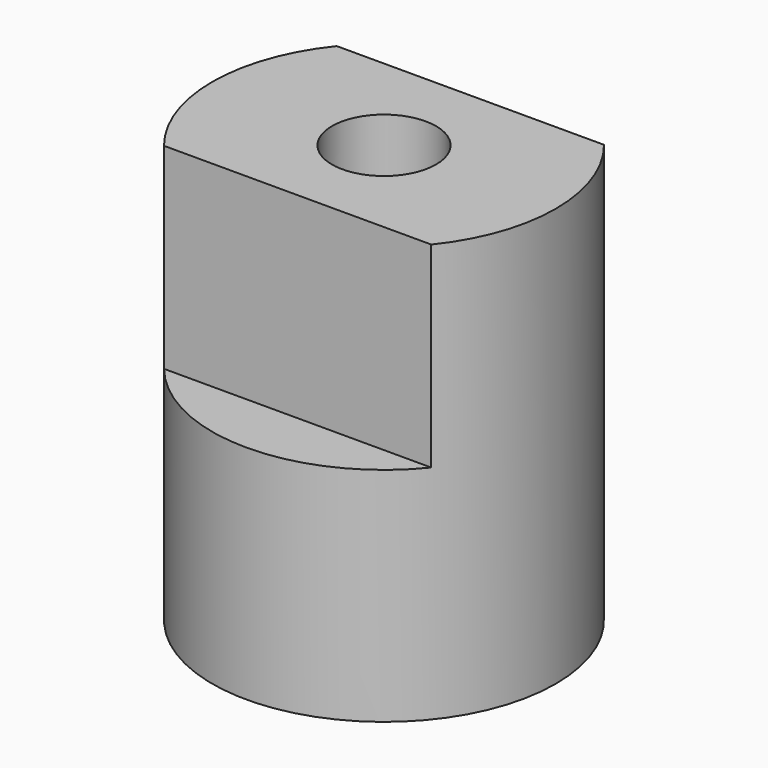
from build123d import *

# Parameters (mm, degrees)
F0_R     = 8.75
F0_R_2   = 4
F1_DEPTH = 21.3
F2_START = 3.8
F0_R_3   = 2.65
F2_DEPTH = 17.5
F4_DEPTH = 10


with BuildPart() as f1:
    # F0 (on Top) → F1 (new body)
    with BuildSketch(Plane.XY):
        Circle(F0_R)
        Circle(F0_R_2, mode=Mode.SUBTRACT)
    extrude(amount=F1_DEPTH)

    # F0 (on Top) → F2 (join)
    with BuildSketch(Plane.XY.offset(F2_START)):
        Circle(F0_R_2)
        Circle(F0_R_3, mode=Mode.SUBTRACT)
    extrude(amount=F2_DEPTH)

    # F3 (on face) → F4 (cut)
    with BuildSketch(Plane.XY.offset(21.3)):
        with BuildLine():
            ThreePointArc((-6.8053287944, -5.5), (0, -8.75), (6.8053287944, -5.5))
            Line((6.8053287944, -5.5), (-6.8053287944, -5.5))
        make_face()
        with BuildLine():
            Line((-6.8053287944, 5.5), (6.8053287944, 5.5))
            ThreePointArc((6.8053287944, 5.5), (0, 8.75), (-6.8053287944, 5.5))
        make_face()
    extrude(amount=-F4_DEPTH, mode=Mode.SUBTRACT)


solid = f1.part
